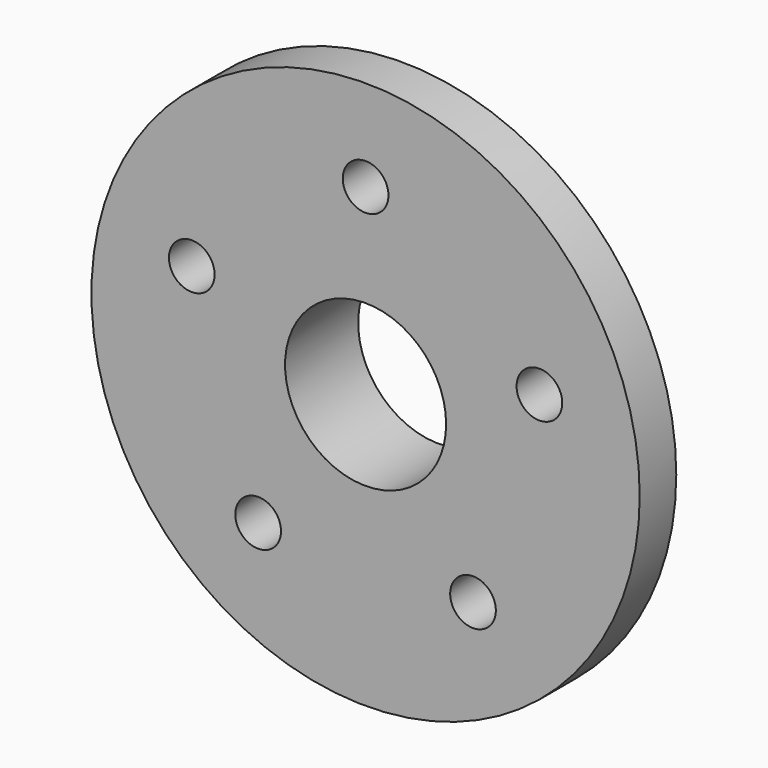
from build123d import *

# Parameters (mm, degrees)
F0_R     = 25
F1_DEPTH = 10
F2_R     = 60
F3_DEPTH = 10
F4_R     = 5
F5_DEPTH = 20.001
F6_R     = 17.6235
F7_DEPTH = 50


with BuildPart() as f1:
    # F0 (on Front) → F1 (new body)
    with BuildSketch(Plane.XZ):
        Circle(F0_R)
    extrude(amount=-F1_DEPTH)

    # F2 (on Front) → F3 (join)
    with BuildSketch(Plane.XZ):
        Circle(F2_R)
    extrude(amount=F3_DEPTH)

    # F4 (on face) → F5 (cut, through all)
    with BuildSketch(Plane.XZ.offset(10)):
        with Locations((0, 40)):
            Circle(F4_R)
        with Locations((-38.042261, 12.36068)):
            Circle(F4_R)
        with Locations((-23.51141, -32.36068)):
            Circle(F4_R)
        with Locations((23.51141, -32.36068)):
            Circle(F4_R)
        with Locations((38.042261, 12.36068)):
            Circle(F4_R)
    extrude(amount=-F5_DEPTH, mode=Mode.SUBTRACT)

    # F6 (on face) → F7 (cut)
    with BuildSketch(Plane.XZ.offset(10)):
        Circle(F6_R)
    extrude(amount=-F7_DEPTH, mode=Mode.SUBTRACT)


solid = f1.part
